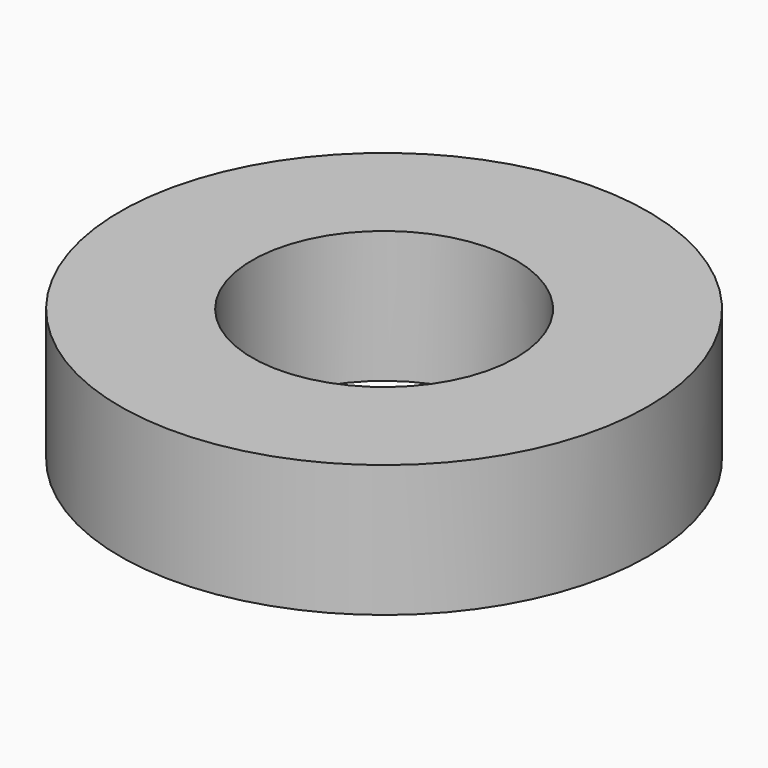
from build123d import *

# Parameters (mm, degrees)
SKETCH_R   = 12
SKETCH_R_2 = 6
PAD_DEPTH  = 6


with BuildPart() as part:
    # Sketch → Pad (new body)
    with BuildSketch(Plane.XY):
        Circle(SKETCH_R)
        Circle(SKETCH_R_2, mode=Mode.SUBTRACT)
    extrude(amount=PAD_DEPTH)


solid = part.part
